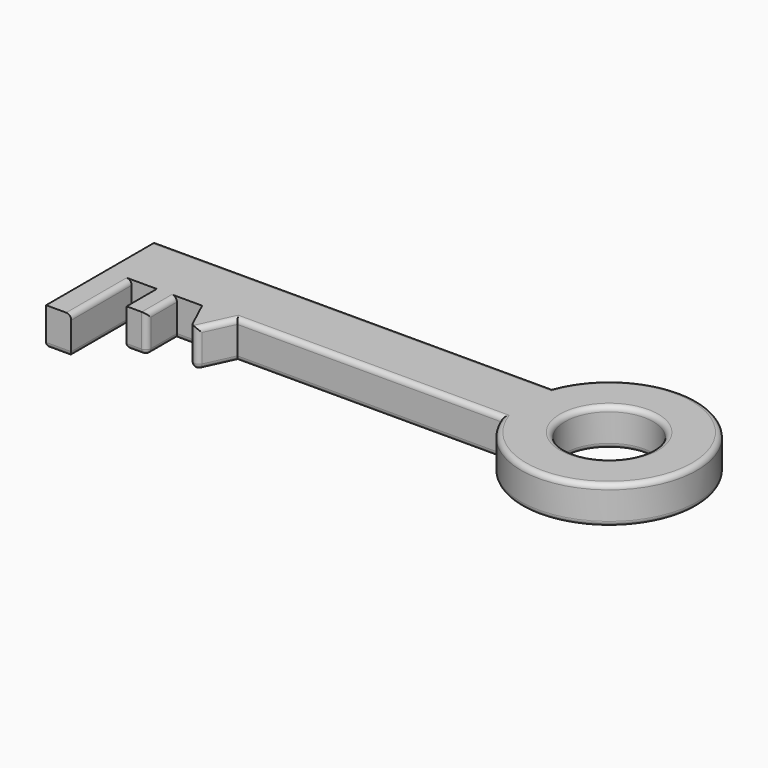
from build123d import *

# Parameters (mm, degrees)
F0_W     = 10
F0_H     = 30
F0_W_2   = 8
F0_H_2   = 15
F0_W_3   = 157.0159420669
F0_H_3   = 12.5
F1_DEPTH = 15
F2_R     = 2


with BuildPart() as f1:
    # F0 (on Top) → F1 (new body)
    with BuildSketch(Plane.XY):
        Polygon((-50.5895421207, -23.3346595988), (-43.5895421207, -8.3346595988), (-57.5895421207, -8.3346595988), align=None)
        with Locations((-90.5895421207, -23.3346595988)):
            Rectangle(F0_W, F0_H)
        with Locations((-71.5895421207, -15.8346595988)):
            Rectangle(F0_W_2, F0_H_2)
        with Locations((-17.0815710872, 10.4153404012)):
            Rectangle(F0_W_3, F0_H_3)
        Polygon((61.4263999462, 4.1653404012), (-95.5895421207, 4.1653404012), (-95.5895421207, -8.3346595988), (-85.5895421207, -8.3346595988), (-75.5895421207, -8.3346595988), (-67.5895421207, -8.3346595988), (-57.5895421207, -8.3346595988), (-43.5895421207, -8.3346595988), (61.4263999462, -8.3346595988), align=None)
        with BuildLine():
            ThreePointArc((61.4263999462, -8.3346595988), (129.1181420228, 4.1653404012), (61.4263999462, 16.6653404012))
            Line((61.4263999462, 16.6653404012), (61.4263999462, 4.1653404012))
            Line((61.4263999462, 4.1653404012), (61.4263999462, -8.3346595988))
        make_face()
        with BuildLine():
            ThreePointArc((111.6181420228, 4.1653404012), (94.1181420228, -13.3346595988), (76.6181420228, 4.1653404012))
            ThreePointArc((76.6181420228, 4.1653404012), (94.1181420228, 21.6653404012), (111.6181420228, 4.1653404012))
        make_face(mode=Mode.SUBTRACT)
    extrude(amount=F1_DEPTH)

    # F2
    f2_edges = [f1.edges().sort_by_distance(p)[0] for p in [
        (129.118142, 4.16534, 15),
        (-17.081571, 16.66534, 15),
        (-47.089542, -15.83466, 15),
        (-67.589542, -15.83466, 15),
        (-85.589542, -23.33466, 15),
        (111.618142, 4.16534, 0),
        (111.618142, 4.16534, 15),
        (129.118142, 4.16534, 0),
        (8.918429, -8.33466, 0),
        (-17.081571, 16.66534, 0),
        (-54.089542, -15.83466, 0),
        (-50.589542, -23.33466, 7.5),
        (-67.589542, -23.33466, 7.5),
        (-71.589542, -23.33466, 0),
        (-75.589542, -15.83466, 0),
        (-85.589542, -23.33466, 0),
        (-95.589542, -10.83466, 0),
        (-47.089542, -15.83466, 0),
        (-90.589542, -38.33466, 0),
        (-80.589542, -8.33466, 0),
        (-67.589542, -15.83466, 0),
        (-62.589542, -8.33466, 0),
        (8.918429, -8.33466, 15),
    ]]
    fillet(f2_edges, radius=F2_R)


solid = f1.part
